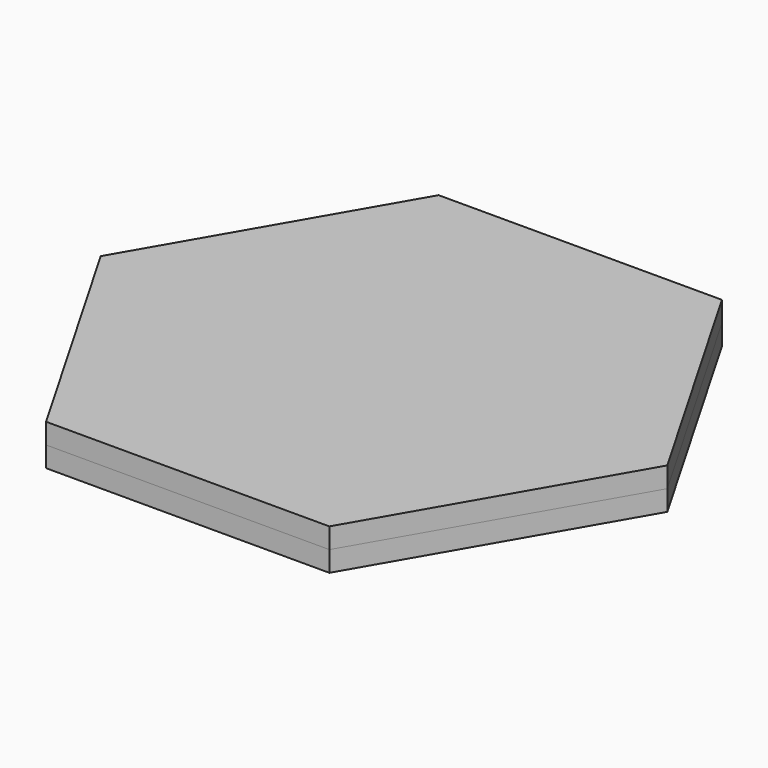
from build123d import *

# Parameters (mm, degrees)
F1_DEPTH = 12.7
F2_DEPTH = 12.7


with BuildPart() as f1:
    # F0 (on Top) → F1 (new body)
    with BuildSketch(Plane.XY):
        with BuildLine():
            ThreePointArc((131.9822715367, -76.2), (147.2070959265, -39.4440224736), (152.4, 0))
            ThreePointArc((152.4, 0), (147.2070959265, 39.4440224736), (131.9822715367, 76.2))
            ThreePointArc((131.9822715367, 76.2), (76.2, 131.9822715367), (0, 152.4))
            ThreePointArc((0, 152.4), (-76.2, 131.9822715367), (-131.9822715367, 76.2))
            ThreePointArc((-131.9822715367, 76.2), (-152.4, 0), (-131.9822715367, -76.2))
            ThreePointArc((-131.9822715367, -76.2), (-76.2, -131.9822715367), (0, -152.4))
            ThreePointArc((0, -152.4), (76.2, -131.9822715367), (131.9822715367, -76.2))
        make_face()
        with BuildLine():
            Line((-87.9881810245, -152.4), (0, -152.4))
            ThreePointArc((0, -152.4), (-76.2, -131.9822715367), (-131.9822715367, -76.2))
            Line((-131.9822715367, -76.2), (-87.9881810245, -152.4))
        make_face()
        with BuildLine():
            ThreePointArc((-131.9822715367, -76.2), (-152.4, 0), (-131.9822715367, 76.2))
            Line((-131.9822715367, 76.2), (-175.976362049, 0))
            Line((-175.976362049, 0), (-131.9822715367, -76.2))
        make_face()
        with BuildLine():
            ThreePointArc((-131.9822715367, 76.2), (-76.2, 131.9822715367), (0, 152.4))
            Line((0, 152.4), (-86.7521613836, 152.4))
            Line((-86.7521613836, 152.4), (-87.9881810245, 152.4))
            Line((-87.9881810245, 152.4), (-131.9822715367, 76.2))
        make_face()
        with BuildLine():
            ThreePointArc((0, 152.4), (76.2, 131.9822715367), (131.9822715367, 76.2))
            Line((131.9822715367, 76.2), (87.9881810245, 152.4))
            Line((87.9881810245, 152.4), (0, 152.4))
        make_face()
        with BuildLine():
            ThreePointArc((131.9822715367, 76.2), (147.2070959265, 39.4440224736), (152.4, 0))
            ThreePointArc((152.4, 0), (147.2070959265, -39.4440224736), (131.9822715367, -76.2))
            Line((131.9822715367, -76.2), (175.976362049, 0))
            Line((175.976362049, 0), (131.9822715367, 76.2))
        make_face()
        with BuildLine():
            Line((87.9881810245, -152.4), (131.9822715367, -76.2))
            ThreePointArc((131.9822715367, -76.2), (76.2, -131.9822715367), (0, -152.4))
            Line((0, -152.4), (87.9881810245, -152.4))
        make_face()
    extrude(amount=F1_DEPTH)


with BuildPart() as f2:
    # F0 (on Top) → F2 (new body)
    with BuildSketch(Plane.XY):
        with BuildLine():
            ThreePointArc((131.9822715367, -76.2), (147.2070959265, -39.4440224736), (152.4, 0))
            ThreePointArc((152.4, 0), (147.2070959265, 39.4440224736), (131.9822715367, 76.2))
            ThreePointArc((131.9822715367, 76.2), (76.2, 131.9822715367), (0, 152.4))
            ThreePointArc((0, 152.4), (-76.2, 131.9822715367), (-131.9822715367, 76.2))
            ThreePointArc((-131.9822715367, 76.2), (-152.4, 0), (-131.9822715367, -76.2))
            ThreePointArc((-131.9822715367, -76.2), (-76.2, -131.9822715367), (0, -152.4))
            ThreePointArc((0, -152.4), (76.2, -131.9822715367), (131.9822715367, -76.2))
        make_face()
        with BuildLine():
            ThreePointArc((-131.9822715367, -76.2), (-152.4, 0), (-131.9822715367, 76.2))
            Line((-131.9822715367, 76.2), (-175.976362049, 0))
            Line((-175.976362049, 0), (-131.9822715367, -76.2))
        make_face()
        with BuildLine():
            ThreePointArc((-131.9822715367, 76.2), (-76.2, 131.9822715367), (0, 152.4))
            Line((0, 152.4), (-86.7521613836, 152.4))
            Line((-86.7521613836, 152.4), (-87.9881810245, 152.4))
            Line((-87.9881810245, 152.4), (-131.9822715367, 76.2))
        make_face()
        with BuildLine():
            ThreePointArc((0, 152.4), (76.2, 131.9822715367), (131.9822715367, 76.2))
            Line((131.9822715367, 76.2), (87.9881810245, 152.4))
            Line((87.9881810245, 152.4), (0, 152.4))
        make_face()
        with BuildLine():
            ThreePointArc((131.9822715367, 76.2), (147.2070959265, 39.4440224736), (152.4, 0))
            ThreePointArc((152.4, 0), (147.2070959265, -39.4440224736), (131.9822715367, -76.2))
            Line((131.9822715367, -76.2), (175.976362049, 0))
            Line((175.976362049, 0), (131.9822715367, 76.2))
        make_face()
        with BuildLine():
            Line((87.9881810245, -152.4), (131.9822715367, -76.2))
            ThreePointArc((131.9822715367, -76.2), (76.2, -131.9822715367), (0, -152.4))
            Line((0, -152.4), (87.9881810245, -152.4))
        make_face()
        with BuildLine():
            Line((-87.9881810245, -152.4), (0, -152.4))
            ThreePointArc((0, -152.4), (-76.2, -131.9822715367), (-131.9822715367, -76.2))
            Line((-131.9822715367, -76.2), (-87.9881810245, -152.4))
        make_face()
    extrude(amount=-F2_DEPTH)


solid = Compound([f1.part, f2.part])
